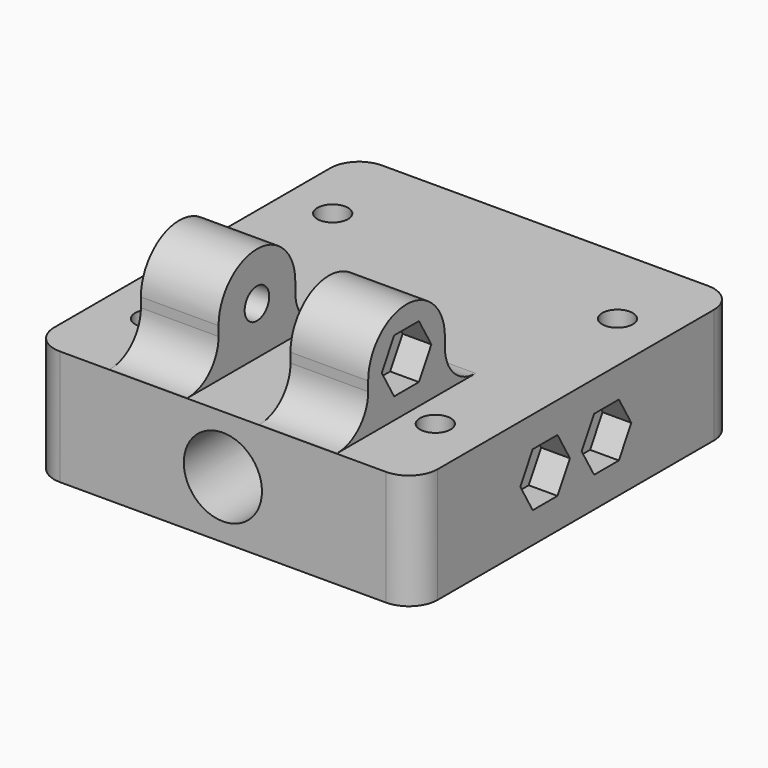
from build123d import *

# Parameters (mm, degrees)
SKETCH_W        = 40
SKETCH_H        = 42
SKETCH_R        = 1.6
PAD_DEPTH       = 12
SKETCH001_R     = 4.075
POCKET_DEPTH    = 42.001
SKETCH003_R     = 1.6
PAD001_DEPTH    = 40
SKETCH004_W     = 8.15
SKETCH004_H     = 42
SKETCH004_R     = 3
SKETCH004_W_2   = 7.5
POCKET001_DEPTH = 10.001
POCKET002_DEPTH = 3
POCKET003_DEPTH = 3
FILLET_R        = 4
FILLET001_R     = 3
SKETCH008_R     = 1.6
POCKET004_DEPTH = 40.001
POCKET005_DEPTH = 3
POCKET006_DEPTH = 3
POCKET007_DEPTH = 40.001


with BuildPart() as part:
    # Sketch → Pad (new body)
    with BuildSketch(Plane.XY):
        Rectangle(SKETCH_W, SKETCH_H)
        with Locations((-14.85, 11.875)):
            Circle(SKETCH_R, mode=Mode.SUBTRACT)
        with Locations((14.85, 11.875)):
            Circle(SKETCH_R, mode=Mode.SUBTRACT)
        with Locations((-14.85, -11.875)):
            Circle(SKETCH_R, mode=Mode.SUBTRACT)
        with Locations((14.85, -11.875)):
            Circle(SKETCH_R, mode=Mode.SUBTRACT)
    extrude(amount=PAD_DEPTH)

    # Sketch001 (on Face3 of Pad) → Pocket (cut, through all)
    with BuildSketch(Plane.XZ.offset(21)):
        with Locations((0, 6)):
            Circle(SKETCH001_R)
    extrude(amount=-POCKET_DEPTH, mode=Mode.SUBTRACT)

    # Sketch003 (on Face2 of Pocket) → Pad001 (join)
    with BuildSketch(Plane(origin=(-20, 0, 0), x_dir=(0, -1, 0), z_dir=(-1, 0, 0))):
        with BuildLine():
            ThreePointArc((16.875, 17), (11.875, 22), (6.875, 17))
            Line((6.875, 17), (6.875, 12))
            Line((16.875, 12), (6.875, 12))
            Line((16.875, 12), (16.875, 17))
        make_face()
        with Locations((11.875, 17)):
            Circle(SKETCH003_R, mode=Mode.SUBTRACT)
    extrude(amount=-PAD001_DEPTH)

    # Sketch004 (on Face4 of Pad001) → Pocket001 (cut, through all)
    with BuildSketch(Plane.XY.offset(12)):
        with Locations((-15.925, 0)):
            Rectangle(SKETCH004_W, SKETCH004_H)
        with Locations((-14.85, 11.875)):
            Circle(SKETCH004_R, mode=Mode.SUBTRACT)
        with Locations((15.925, 0)):
            Rectangle(SKETCH004_W, SKETCH004_H)
        Rectangle(SKETCH004_W_2, SKETCH004_H)
    extrude(amount=POCKET001_DEPTH, mode=Mode.SUBTRACT)

    # Sketch005 (on Face31 of Pocket001) → Pocket002 (cut)
    with BuildSketch(Plane.YZ.offset(11.85)):
        Polygon((-10.258419, 19.8), (-13.491581, 19.8), (-15.108162, 17), (-13.491581, 14.2), (-10.258419, 14.2), (-8.641838, 17), align=None)
    extrude(amount=-POCKET002_DEPTH, mode=Mode.SUBTRACT)

    # Sketch006 (on Face27 of Pocket002) → Pocket003 (cut)
    with BuildSketch(Plane(origin=(-11.85, 0, 0), x_dir=(0, -1, 0), z_dir=(-1, 0, 0))):
        Polygon((13.491581, 19.8), (10.258419, 19.8), (8.641838, 17), (10.258419, 14.2), (13.491581, 14.2), (15.108162, 17), align=None)
    extrude(amount=-POCKET003_DEPTH, mode=Mode.SUBTRACT)

    # Fillet
    fillet_edges = [part.edges().sort_by_distance(p)[0] for p in [
        (7.8, -16.875, 12),
        (-7.8, -16.875, 12),
        (7.8, -6.875, 12),
        (-7.8, -6.875, 12),
    ]]
    fillet(fillet_edges, radius=FILLET_R)

    # Fillet001
    fillet001_edges = [part.edges().sort_by_distance(p)[0] for p in [
        (20, -21, 6),
        (-20, -21, 6),
        (20, 21, 6),
        (-20, 21, 6),
    ]]
    fillet(fillet001_edges, radius=FILLET001_R)

    # Sketch008 (on Face5 of Fillet001) → Pocket004 (cut, through all)
    with BuildSketch(Plane(origin=(-20, 0, 0), x_dir=(0, -1, 0), z_dir=(-1, 0, 0))):
        with Locations((-4, 6)):
            Circle(SKETCH008_R)
        with Locations((4, 6)):
            Circle(SKETCH008_R)
    extrude(amount=-POCKET004_DEPTH, mode=Mode.SUBTRACT)

    # Sketch009 (on Face5 of Pocket004) → Pocket005 (cut)
    with BuildSketch(Plane(origin=(-20, 0, 0), x_dir=(0, -1, 0), z_dir=(-1, 0, 0))):
        Polygon((-2.383419, 8.8), (-5.616581, 8.8), (-7.233162, 6), (-5.616581, 3.2), (-2.383419, 3.2), (-0.766838, 6), align=None)
        Polygon((5.616581, 8.8), (2.383419, 8.8), (0.766838, 6), (2.383419, 3.2), (5.616581, 3.2), (7.233162, 6), align=None)
    extrude(amount=-POCKET005_DEPTH, mode=Mode.SUBTRACT)

    # Sketch010 (on Face42 of Pocket005) → Pocket006 (cut)
    with BuildSketch(Plane.YZ.offset(20)):
        Polygon((-2.383419, 8.8), (-5.616581, 8.8), (-7.233162, 6), (-5.616581, 3.2), (-2.383419, 3.2), (-0.766838, 6), align=None)
        Polygon((5.616581, 8.8), (2.383419, 8.8), (0.766838, 6), (2.383419, 3.2), (5.616581, 3.2), (7.233162, 6), align=None)
    extrude(amount=-POCKET006_DEPTH, mode=Mode.SUBTRACT)

    # Sketch008 (on Face5 of Fillet001) → Pocket007 (cut, through all)
    with BuildSketch(Plane(origin=(-20, 0, 0), x_dir=(0, -1, 0), z_dir=(-1, 0, 0))):
        with Locations((-4, 6)):
            Circle(SKETCH008_R)
        with Locations((4, 6)):
            Circle(SKETCH008_R)
    extrude(amount=-POCKET007_DEPTH, mode=Mode.SUBTRACT)


solid = part.part
